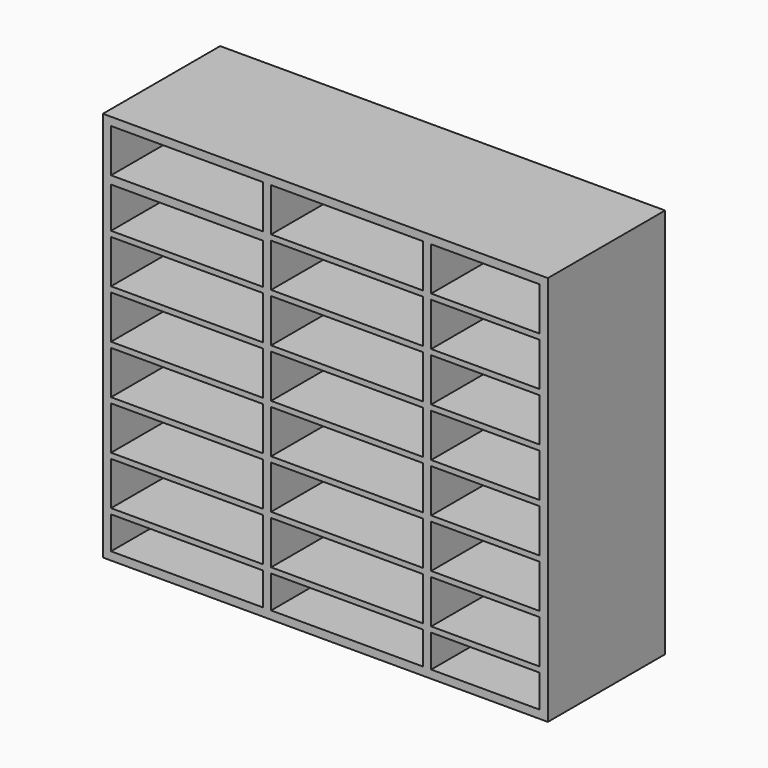
from build123d import *

# Parameters (mm, degrees)
F0_W     = 1041.4
F0_H     = 914.4
F0_W_2   = 355.6
F0_H_2   = 12.7
F0_W_3   = 254
F1_DEPTH = 342.9


with BuildPart() as f1:
    # F0 (on Front) → F1 (new body)
    with BuildSketch(Plane.XZ):
        with Locations((31.582896, 242.074349)):
            Rectangle(F0_W, F0_H)
        Polygon((533.232896, -119.875651), (533.232896, -196.075651), (279.232896, -196.075651), (260.182896, -196.075651), (-95.417104, -196.075651), (-114.467104, -196.075651), (-470.067104, -196.075651), (-470.067104, -119.875651), (-470.067104, -107.175651), (-470.067104, -5.575651), (-470.067104, 7.124349), (-470.067104, 108.724349), (-470.067104, 121.424349), (-470.067104, 223.024349), (-470.067104, 235.724349), (-470.067104, 337.324349), (-470.067104, 350.024349), (-470.067104, 451.624349), (-470.067104, 464.324349), (-470.067104, 559.574349), (-470.067104, 565.924349), (-470.067104, 578.624349), (-470.067104, 680.224349), (-114.467104, 680.224349), (-95.417104, 680.224349), (260.182896, 680.224349), (279.232896, 680.224349), (533.232896, 680.224349), (533.232896, 578.624349), (533.232896, 565.924349), (533.232896, 464.324349), (533.232896, 451.624349), (533.232896, 350.024349), (533.232896, 337.324349), (533.232896, 235.724349), (533.232896, 223.024349), (533.232896, 121.424349), (533.232896, 108.724349), (533.232896, 7.124349), (533.232896, -5.575651), (533.232896, -107.175651), align=None, mode=Mode.SUBTRACT)
        Polygon((-470.067104, 559.574349), (-114.467104, 559.574349), (-114.467104, 565.924349), (-114.467104, 578.624349), (-470.067104, 578.624349), (-470.067104, 565.924349), align=None)
        Polygon((-114.467104, -196.075651), (-95.417104, -196.075651), (-95.417104, -119.875651), (-95.417104, -107.175651), (-95.417104, -5.575651), (-95.417104, 7.124349), (-95.417104, 108.724349), (-95.417104, 121.424349), (-95.417104, 223.024349), (-95.417104, 235.724349), (-95.417104, 337.324349), (-95.417104, 350.024349), (-95.417104, 451.624349), (-95.417104, 464.324349), (-95.417104, 565.924349), (-95.417104, 578.624349), (-95.417104, 680.224349), (-114.467104, 680.224349), (-114.467104, 578.624349), (-114.467104, 565.924349), (-114.467104, 559.574349), (-114.467104, 464.324349), (-114.467104, 451.624349), (-114.467104, 350.024349), (-114.467104, 337.324349), (-114.467104, 235.724349), (-114.467104, 223.024349), (-114.467104, 121.424349), (-114.467104, 108.724349), (-114.467104, 7.124349), (-114.467104, -5.575651), (-114.467104, -107.175651), (-114.467104, -119.875651), align=None)
        Polygon((260.182896, -196.075651), (279.232896, -196.075651), (279.232896, -119.875651), (279.232896, -107.175651), (279.232896, -5.575651), (279.232896, 7.124349), (279.232896, 108.724349), (279.232896, 121.424349), (279.232896, 223.024349), (279.232896, 235.724349), (279.232896, 337.324349), (279.232896, 350.024349), (279.232896, 451.624349), (279.232896, 464.324349), (279.232896, 565.924349), (279.232896, 578.624349), (279.232896, 680.224349), (260.182896, 680.224349), (260.182896, 578.624349), (260.182896, 565.924349), (260.182896, 464.324349), (260.182896, 451.624349), (260.182896, 350.024349), (260.182896, 337.324349), (260.182896, 235.724349), (260.182896, 223.024349), (260.182896, 121.424349), (260.182896, 108.724349), (260.182896, 7.124349), (260.182896, -5.575651), (260.182896, -107.175651), (260.182896, -119.875651), align=None)
        with Locations((82.382896, 572.274349)):
            Rectangle(F0_W_2, F0_H_2)
        with Locations((406.232896, 572.274349)):
            Rectangle(F0_W_3, F0_H_2)
        with Locations((406.232896, 457.974349)):
            Rectangle(F0_W_3, F0_H_2)
        with Locations((82.382896, 457.974349)):
            Rectangle(F0_W_2, F0_H_2)
        with Locations((-292.267104, 457.974349)):
            Rectangle(F0_W_2, F0_H_2)
        with Locations((-292.267104, 343.674349)):
            Rectangle(F0_W_2, F0_H_2)
        with Locations((-292.267104, 115.074349)):
            Rectangle(F0_W_2, F0_H_2)
        with Locations((-292.267104, 0.774349)):
            Rectangle(F0_W_2, F0_H_2)
        with Locations((-292.267104, -113.525651)):
            Rectangle(F0_W_2, F0_H_2)
        with Locations((82.382896, -113.525651)):
            Rectangle(F0_W_2, F0_H_2)
        with Locations((82.382896, 0.774349)):
            Rectangle(F0_W_2, F0_H_2)
        with Locations((82.382896, 115.074349)):
            Rectangle(F0_W_2, F0_H_2)
        with Locations((82.382896, 343.674349)):
            Rectangle(F0_W_2, F0_H_2)
        with Locations((82.382896, 229.374349)):
            Rectangle(F0_W_2, F0_H_2)
        with Locations((406.232896, 343.674349)):
            Rectangle(F0_W_3, F0_H_2)
        with Locations((406.232896, 229.374349)):
            Rectangle(F0_W_3, F0_H_2)
        with Locations((406.232896, 115.074349)):
            Rectangle(F0_W_3, F0_H_2)
        with Locations((406.232896, 0.774349)):
            Rectangle(F0_W_3, F0_H_2)
        with Locations((406.232896, -113.525651)):
            Rectangle(F0_W_3, F0_H_2)
        with Locations((-292.267104, 229.374349)):
            Rectangle(F0_W_2, F0_H_2)
    extrude(amount=-F1_DEPTH)


solid = f1.part
